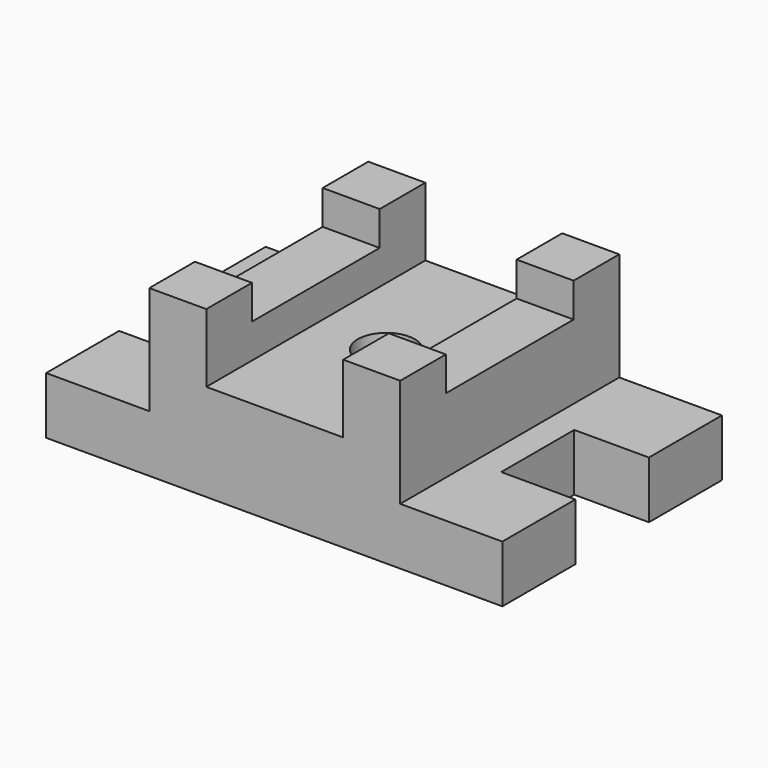
from build123d import *

# Parameters (mm, degrees)
F0_W     = 171.45
F0_H     = 50.8
F1_DEPTH = 31.75
F2_W     = 139.7
F2_H     = 152.4
F3_DEPTH = 22.225
F4_W     = 31.75
F4_H     = 31.75
F5_DEPTH = 38.1
F6_W     = 31.75
F6_H     = 88.9
F7_DEPTH = 19.05
F9_D     = 31.75


with BuildPart() as f1:
    # F0 (on Top) → F1 (new body)
    with BuildSketch(Plane.XY):
        Polygon((117.724139, 73.506297), (-136.275861, 73.506297), (-136.275861, 22.706297), (-95.297882, 22.706297), (76.152118, 22.706297), (117.724139, 22.706297), align=None)
        with Locations((-9.572882, -2.693703)):
            Rectangle(F0_W, F0_H)
        Polygon((76.152118, -28.093703), (-95.297882, -28.093703), (-136.572882, -28.093703), (-136.572882, -78.893703), (117.427118, -78.893703), (117.427118, -28.093703), align=None)
    extrude(amount=F1_DEPTH)

    # F2 (on face) → F3 (join)
    with BuildSketch(Plane.XY.offset(31.75)):
        with Locations((-9.275861, -2.693703)):
            Rectangle(F2_W, F2_H)
    extrude(amount=F3_DEPTH)

    # F4 (on face) → F5 (join)
    with BuildSketch(Plane.XY.offset(53.975)):
        with Locations((-63.250861, 57.631297)):
            Rectangle(F4_W, F4_H)
        with Locations((-63.250861, -63.018703)):
            Rectangle(F4_W, F4_H)
        with Locations((44.699139, -63.018703)):
            Rectangle(F4_W, F4_H)
        with Locations((44.699139, 57.631297)):
            Rectangle(F4_W, F4_H)
    extrude(amount=F5_DEPTH)

    # F6 (on face) → F7 (join)
    with BuildSketch(Plane.XY.offset(53.975)):
        with Locations((-63.250861, -2.693703)):
            Rectangle(F6_W, F6_H)
        with Locations((44.699139, -2.693703)):
            Rectangle(F6_W, F6_H)
    extrude(amount=F7_DEPTH)

    # F9 (through all)
    with Locations(Plane.XY.offset(53.975)):
        with Locations((-8.136325, -2.693703)):
            Hole(F9_D / 2)


solid = f1.part
